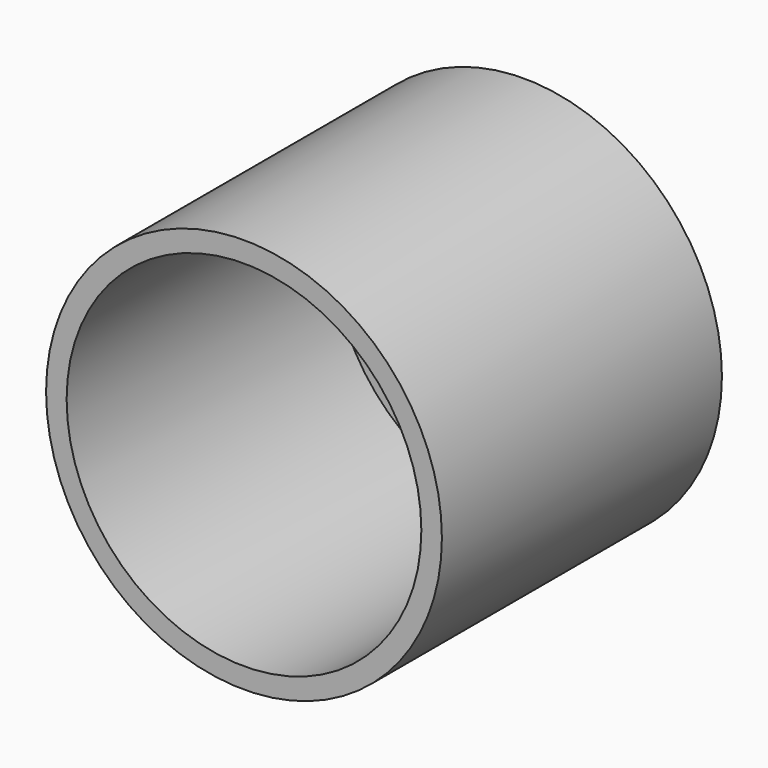
from build123d import *

# Parameters (mm, degrees)
F0_R     = 57.445116
F0_R_2   = 51.4799
F1_DEPTH = 101.6
F2_R     = 51.448995
F3_DEPTH = 5.08


with BuildPart() as f1:
    # F0 (on Front) → F1 (new body)
    with BuildSketch(Plane.XZ):
        Circle(F0_R)
        Circle(F0_R_2, mode=Mode.SUBTRACT)
    extrude(amount=F1_DEPTH)


with BuildPart() as f3:
    # F2 (on face) → F3 (new body)
    with BuildSketch(Plane.XZ):
        Circle(F2_R)
    extrude(amount=F3_DEPTH)


solid = Compound([f1.part, f3.part])
